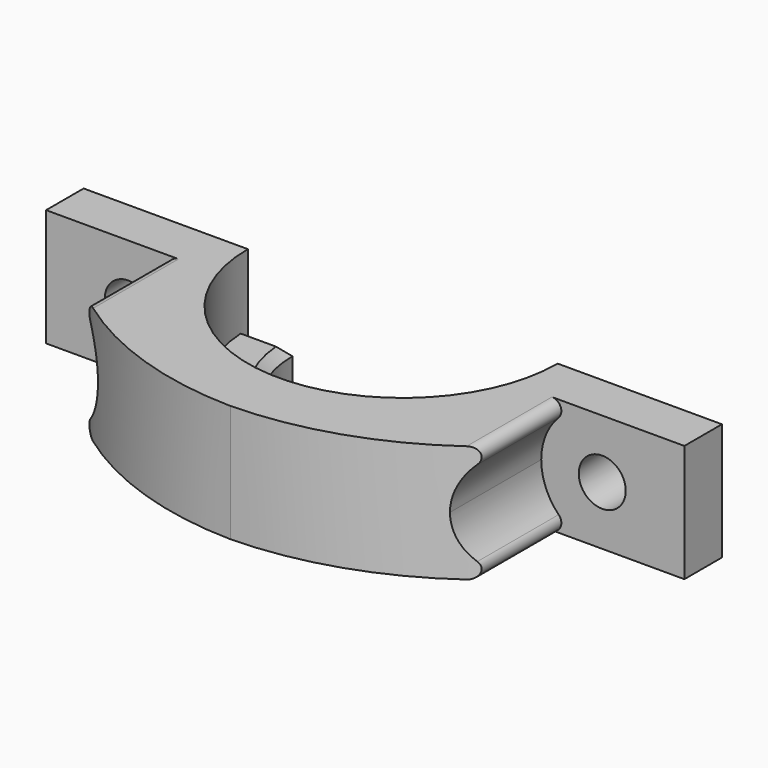
from build123d import *

# Parameters (mm, degrees)
F1_DEPTH = 6.35
F2_DEPTH = 2.54
F3_R     = 1.27
F4_DEPTH = 25.4
F7_DEPTH = 10.16
F8_R     = 0.508
F9_SIZE  = 0.508


with BuildPart() as f1:
    # F0 (on Top) → F1 (new body)
    with BuildSketch(Plane.XY):
        with BuildLine():
            ThreePointArc((8.382, 0), (0, -8.382), (-8.382, 0))
            Line((-8.382, 0), (-17.272, 0))
            Line((-17.272, 0), (-17.272, -2.54))
            Line((-17.272, -2.54), (-15.24, -2.54))
            ThreePointArc((-15.24, -2.54), (-8.8418597658, -9.1442704985), (0, -11.6689691252))
            ThreePointArc((0, -11.6689691252), (8.8418597658, -9.1442704985), (15.24, -2.54))
            Line((15.24, -2.54), (17.272, -2.54))
            Line((17.272, -2.54), (17.272, 0))
            Line((17.272, 0), (8.382, 0))
        make_face()
    extrude(amount=F1_DEPTH)

    # F0 (on Top) → F2 (join)
    with BuildSketch(Plane.XY):
        with BuildLine():
            ThreePointArc((5.969, 0), (0, -5.969), (-5.969, 0))
            Line((-5.969, 0), (-8.382, 0))
            ThreePointArc((-8.382, 0), (0, -8.382), (8.382, 0))
            Line((8.382, 0), (5.969, 0))
        make_face()
    extrude(amount=F2_DEPTH)

    # F3 (on face) → F4 (cut)
    with BuildSketch(Plane(origin=(0, 0, 0), x_dir=(-1, 0, 0), z_dir=(0, 1, 0))):
        with Locations((-12.827, 3.175)):
            Circle(F3_R)
        with Locations((12.827, 3.175)):
            Circle(F3_R)
    extrude(amount=-F4_DEPTH, mode=Mode.SUBTRACT)

    # F6 (on offset) → F7 (cut)
    with BuildSketch(Plane(origin=(0, -12.7, 0), x_dir=(-1, 0, 0), z_dir=(0, 1, 0))):
        with BuildLine():
            ThreePointArc((12.7267177602, -0.1254768553), (15.1261381042, 0.8049434652), (16.129, 3.175))
            ThreePointArc((16.129, 3.175), (15.1883800681, 5.483048564), (12.9024172176, 6.4761386283))
            ThreePointArc((12.9024172176, 6.4761386283), (9.5261688447, 3.2628503518), (12.7267177602, -0.1254768553))
        make_face()
        with BuildLine():
            ThreePointArc((-12.7793536698, -0.1266562249), (-10.4753482207, 0.8570401408), (-9.525, 3.175))
            ThreePointArc((-9.525, 3.175), (-10.4531379965, 5.4702087461), (-12.7157832758, 6.4751264885))
            ThreePointArc((-12.7157832758, 6.4751264885), (-16.128846925, 3.2067943984), (-12.7793536698, -0.1266562249))
        make_face()
        with BuildLine():
            ThreePointArc((-12.7793536698, -0.1266562249), (-16.128846925, 3.2067943984), (-12.7157832758, 6.4751264885))
            Line((-12.7157832758, 6.4751264885), (-20.0003515929, 7.2803031653))
            Line((-20.0003515929, 7.2803031653), (-20.0003515929, -2.0043456461))
            Line((-20.0003515929, -2.0043456461), (-12.7793536698, -0.1266562249))
        make_face()
        with BuildLine():
            ThreePointArc((12.9024172176, 6.4761386283), (15.1883800681, 5.483048564), (16.129, 3.175))
            ThreePointArc((16.129, 3.175), (15.1261381042, 0.8049434652), (12.7267177602, -0.1254768553))
            Line((12.7267177602, -0.1254768553), (20.6403024495, -1.1550099589))
            Line((20.6403024495, -1.1550099589), (20.6403024495, 7.2800177149))
            Line((20.6403024495, 7.2800177149), (12.9024172176, 6.4761386283))
        make_face()
    extrude(amount=F7_DEPTH, mode=Mode.SUBTRACT)

    # F8
    f8_edges = [f1.edges().sort_by_distance(p)[0] for p in [
        (-11.920039, -4.675696, 6.35),
        (-11.920039, -4.675696, 0),
        (11.920039, -4.675696, 6.35),
        (11.920039, -4.675696, 0),
    ]]
    fillet(f8_edges, radius=F8_R)

    # F9
    f9_edges = [f1.edges().sort_by_distance(p)[0] for p in [
        (0, -5.969, 2.54),
        (7.1755, 0, 2.54),
        (-7.1755, 0, 2.54),
    ]]
    chamfer(f9_edges, length=F9_SIZE)


solid = f1.part
